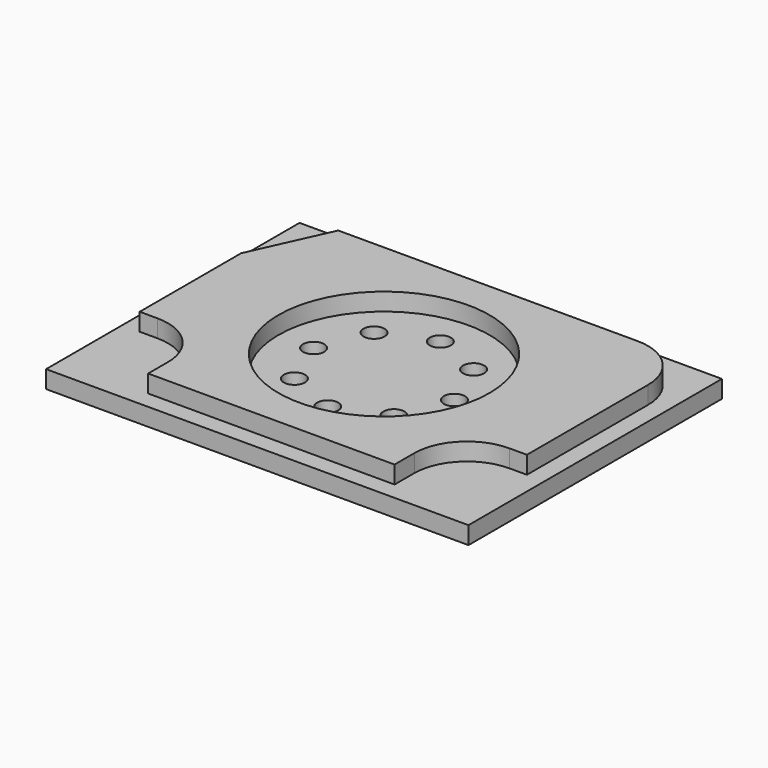
from build123d import *

# Parameters (mm, degrees)
F0_W     = 120
F0_H     = 90
F1_DEPTH = 5
F3_DEPTH = 5
F4_R     = 30
F5_DEPTH = 5
F6_R     = 3
F7_DEPTH = 25


with BuildPart() as f1:
    # F0 (on Top) → F1 (new body)
    with BuildSketch(Plane.XY):
        with Locations((-60, 45)):
            Rectangle(F0_W, F0_H)
    extrude(amount=F1_DEPTH)

    # F2 (on face) → F3 (join)
    with BuildSketch(Plane.XY.offset(5)):
        with BuildLine():
            Line((-10, 27), (-5, 27))
            Line((-5, 27), (-5, 70))
            ThreePointArc((-5, 70), (-9.393398, 80.606602), (-20, 85))
            Line((-20, 85), (-105, 85))
            Line((-105, 85), (-115, 63))
            Line((-115, 63), (-115, 27))
            Line((-115, 27), (-110, 27))
            ThreePointArc((-110, 27), (-99.393398, 22.606602), (-95, 12))
            Line((-95, 12), (-95, 5))
            Line((-95, 5), (-25, 5))
            Line((-25, 5), (-25, 12))
            ThreePointArc((-25, 12), (-20.606602, 22.606602), (-10, 27))
        make_face()
    extrude(amount=F3_DEPTH)

    # F4 (on face) → F5 (cut)
    with BuildSketch(Plane.XY.offset(10)):
        with Locations((-60, 45)):
            Circle(F4_R)
    extrude(amount=-F5_DEPTH, mode=Mode.SUBTRACT)

    # F6 (on face) → F7 (cut)
    with BuildSketch(Plane.XY.offset(10)):
        with Locations((-80, 45)):
            Circle(F6_R)
        with Locations((-60, 25)):
            Circle(F6_R)
        with Locations((-60, 65)):
            Circle(F6_R)
        with Locations((-40, 45)):
            Circle(F6_R)
        with Locations((-74.14, 59.144271)):
            Circle(F6_R)
        with Locations((-45.86, 59.144271)):
            Circle(F6_R)
        with Locations((-74.14, 30.855729)):
            Circle(F6_R)
        with Locations((-45.86, 30.855729)):
            Circle(F6_R)
    extrude(amount=-F7_DEPTH, mode=Mode.SUBTRACT)


solid = f1.part
